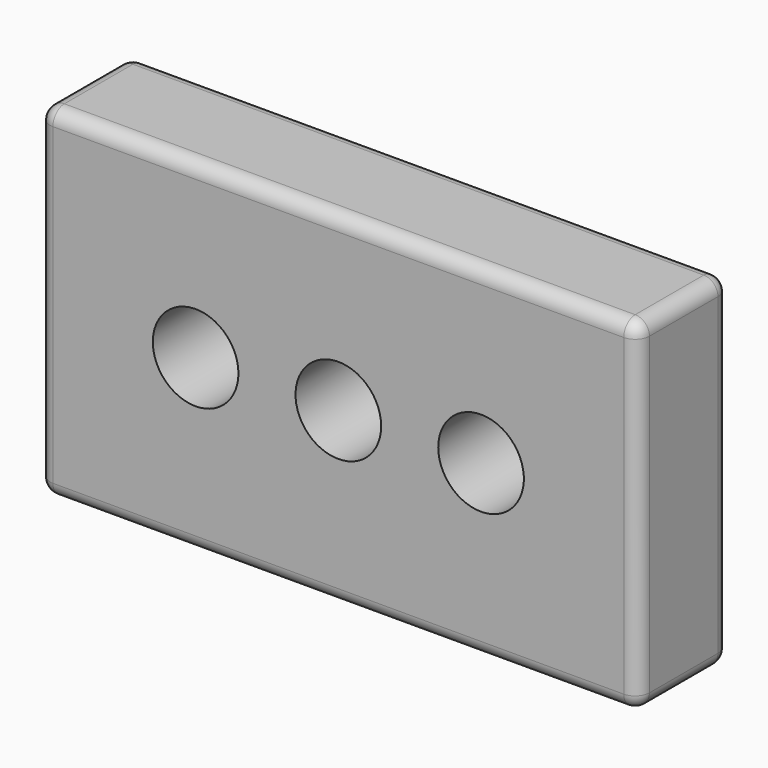
from build123d import *

# Parameters (mm, degrees)
F0_W     = 105
F0_H     = 60
F0_R     = 7.5
F1_DEPTH = 20
F2_R     = 2.5


with BuildPart() as f1:
    # F0 (on Front) → F1 (new body)
    with BuildSketch(Plane.XZ):
        Rectangle(F0_W, F0_H)
        with Locations((-25, 0)):
            Circle(F0_R, mode=Mode.SUBTRACT)
        with BuildLine():
            ThreePointArc((-7.5, 0), (0, 7.5), (7.5, 0))
            ThreePointArc((7.5, 0), (0, -7.5), (-7.5, 0))
        make_face(mode=Mode.SUBTRACT)
        with BuildLine():
            ThreePointArc((32.5, 0), (25, -7.5), (17.5, 0))
            ThreePointArc((17.5, 0), (25, 7.5), (32.5, 0))
        make_face(mode=Mode.SUBTRACT)
    extrude(amount=F1_DEPTH)

    # F2
    f2_edges = [f1.edges().sort_by_distance(p)[0] for p in [
        (0, -20, -30),
        (52.5, -20, 0),
        (0, -20, 30),
        (-52.5, -20, 0),
        (-52.5, -10, 30),
        (-52.5, -10, -30),
        (-52.5, 0, 0),
        (0, 0, -30),
        (52.5, -10, -30),
        (52.5, -10, 30),
        (52.5, 0, 0),
        (0, 0, 30),
    ]]
    fillet(f2_edges, radius=F2_R)


solid = f1.part
